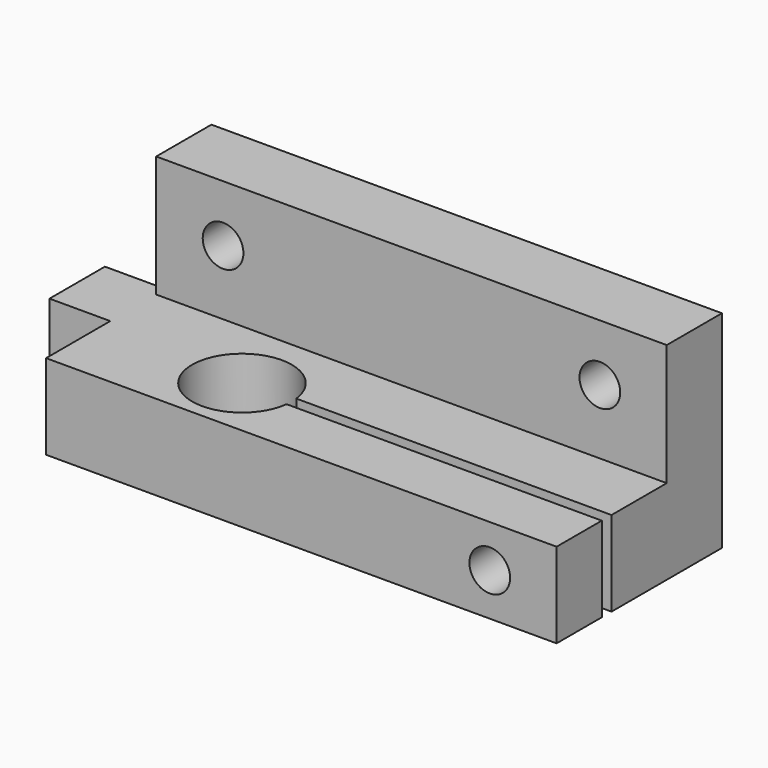
from build123d import *

# Parameters (mm, degrees)
F0_W      = 42
F0_H      = 17
F1_DEPTH  = 7
F4_DEPTH  = 25
F5_W      = 42
F5_H      = 5.6745335534
F6_DEPTH  = 10
F7_R      = 1.675
F8_DEPTH  = 25
F9_DEPTH  = 25
F11_W     = 5.7
F11_H     = 7
F12_DEPTH = 5


with BuildPart() as f1:
    # F0 (on Top) → F1 (new body)
    with BuildSketch(Plane.XY):
        with Locations((21, 8.5)):
            Rectangle(F0_W, F0_H)
    extrude(amount=F1_DEPTH)

    # F3 (on face) → F4 (cut)
    with BuildSketch(Plane(origin=(0, 17, 0), x_dir=(-1, 0, 0), z_dir=(0, 1, 0))):
        with BuildLine():
            ThreePointArc((-38.175, 3.5), (-36.5, 1.825), (-34.825, 3.5))
            ThreePointArc((-34.825, 3.5), (-36.5, 5.175), (-38.175, 3.5))
        make_face()
    extrude(amount=-F4_DEPTH, mode=Mode.SUBTRACT)

    # F5 (on face) → F6 (join)
    with BuildSketch(Plane.XY.offset(7)):
        with Locations((21, 14.1627332233)):
            Rectangle(F5_W, F5_H)
    extrude(amount=F6_DEPTH)

    # F7 (on face) → F8 (cut)
    with BuildSketch(Plane(origin=(0, 17, 0), x_dir=(-1, 0, 0), z_dir=(0, 1, 0))):
        with Locations((-36.5, 12.325)):
            Circle(F7_R)
        with Locations((-5.5, 12.325)):
            Circle(F7_R)
    extrude(amount=-F8_DEPTH, mode=Mode.SUBTRACT)

    # F2 (on face) → F9 (cut)
    with BuildSketch(Plane.XY.offset(7)):
        with BuildLine():
            ThreePointArc((16.0693979899, 4.645), (16.0923423463, 4.8945321962), (16.1, 5.145))
            ThreePointArc((16.1, 5.145), (16.0923423463, 5.3954678038), (16.0693979899, 5.645))
            ThreePointArc((16.0693979899, 5.645), (7.9, 5.145), (16.0693979899, 4.645))
        make_face()
        with BuildLine():
            Line((42, 5.145), (16.1, 5.145))
            ThreePointArc((16.1, 5.145), (16.0923423463, 4.8945321962), (16.0693979899, 4.645))
            Line((16.0693979899, 4.645), (42, 4.645))
            Line((42, 4.645), (42, 5.145))
        make_face()
        with BuildLine():
            ThreePointArc((16.0693979899, 5.645), (16.0923423463, 5.3954678038), (16.1, 5.145))
            Line((16.1, 5.145), (42, 5.145))
            Line((42, 5.145), (42, 5.645))
            Line((42, 5.645), (16.0693979899, 5.645))
        make_face()
    extrude(amount=-F9_DEPTH, mode=Mode.SUBTRACT)

    # F11 (on face) → F12 (join)
    with BuildSketch(Plane(origin=(0, 0, 0), x_dir=(0, -1, 0), z_dir=(-1, 0, 0))):
        with Locations((-9.45, 3.5)):
            Rectangle(F11_W, F11_H)
    extrude(amount=F12_DEPTH)


solid = f1.part
